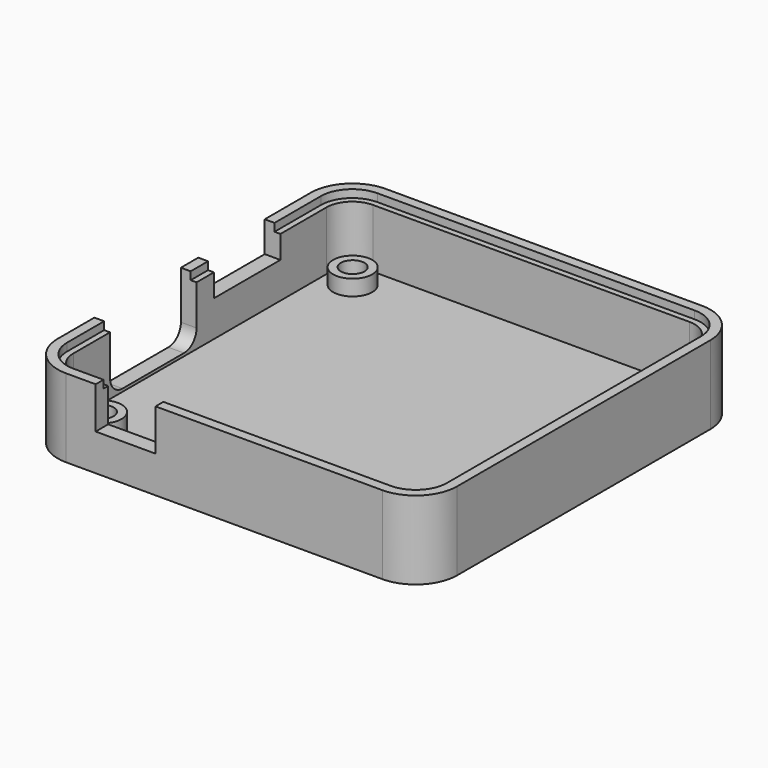
from build123d import *

# Parameters (mm, degrees)
PAD005_DEPTH    = 4
PAD_DEPTH       = 10
POCKET_DEPTH    = 4.5
POCKET001_DEPTH = 1
SKETCH002_R     = 2.5
PAD004_DEPTH    = 2
SKETCH003_R     = 1.5
POCKET002_DEPTH = 3.501
SKETCH009_W     = 10.607274
SKETCH009_H     = 4.434788
POCKET003_DEPTH = 5
SKETCH010_W     = 7.64298
SKETCH010_H     = 5.328556
POCKET004_DEPTH = 5


with BuildPart() as usb_c_cutter:
    # Sketch008 → Pad005 (new body)
    with BuildSketch(Plane(origin=(0, 0, 0), x_dir=(0, -1, 0), z_dir=(-1, 0, 0))):
        with BuildLine():
            Line((2.535801, 11.911979), (12.347588, 11.911979))
            ThreePointArc((14.347588, 9.911979), (13.761802, 11.326192), (12.347588, 11.911979))
            Line((14.347588, 9.911979), (14.347588, 3.866895))
            ThreePointArc((12.347588, 1.866895), (13.761802, 2.452682), (14.347588, 3.866895))
            Line((12.347588, 1.866895), (2.535801, 1.866895))
            ThreePointArc((0.535801, 3.866895), (1.121588, 2.452682), (2.535801, 1.866895))
            Line((0.535801, 3.866895), (0.535801, 9.911979))
            ThreePointArc((2.535801, 11.911979), (1.121588, 11.326192), (0.535801, 9.911979))
        make_face()
    extrude(amount=-PAD005_DEPTH)


with BuildPart() as usb_c_cutter_1:
    # Body002 placement: moved
    add(usb_c_cutter.part.moved(Location((-26, 0, 0))))


with BuildPart() as body_pocketed:
    # Sketch001 → Pad (new body)
    with BuildSketch(Plane.XY):
        with BuildLine():
            Line((-20.2, 25.5), (20.2, 25.5))
            ThreePointArc((25.5, 20.2), (23.947666, 23.947666), (20.2, 25.5))
            Line((25.5, 20.2), (25.5, -20.2))
            ThreePointArc((20.2, -25.5), (23.947666, -23.947666), (25.5, -20.2))
            Line((20.2, -25.5), (-20.2, -25.5))
            ThreePointArc((-25.5, -20.2), (-23.947666, -23.947666), (-20.2, -25.5))
            Line((-25.5, -20.2), (-25.5, 20.2))
            ThreePointArc((-20.2, 25.5), (-23.947666, 23.947666), (-25.5, 20.2))
        make_face()
    extrude(amount=PAD_DEPTH)

    # Sketch → Pocket (cut, symmetric)
    with BuildSketch(Plane.XY.offset(6)):
        with BuildLine():
            Line((-20.2, 23.5), (20.2, 23.5))
            ThreePointArc((23.5, 20.2), (22.533452, 22.533452), (20.2, 23.5))
            Line((23.5, 20.2), (23.5, -20.2))
            ThreePointArc((20.2, -23.5), (22.533452, -22.533452), (23.5, -20.2))
            Line((20.2, -23.5), (-20.2, -23.5))
            ThreePointArc((-23.5, -20.2), (-22.533452, -22.533452), (-20.2, -23.5))
            Line((-23.5, -20.2), (-23.5, 20.2))
            ThreePointArc((-20.2, 23.5), (-22.533452, 22.533452), (-23.5, 20.2))
        make_face()
    extrude(amount=POCKET_DEPTH, both=True, mode=Mode.SUBTRACT)

    # Sketch004 (on Face5 of Pocket) → Pocket001 (cut, symmetric)
    with BuildSketch(Plane.XY.offset(10)):
        with BuildLine():
            Line((-20.25, 24.25), (20.25, 24.25))
            ThreePointArc((24.25, 20.25), (23.078427, 23.078427), (20.25, 24.25))
            Line((24.25, 20.25), (24.25, -20.25))
            ThreePointArc((20.25, -24.25), (23.078427, -23.078427), (24.25, -20.25))
            Line((20.25, -24.25), (-20.25, -24.25))
            ThreePointArc((-24.25, -20.25), (-23.078427, -23.078427), (-20.25, -24.25))
            Line((-24.25, -20.25), (-24.25, 20.25))
            ThreePointArc((-20.25, 24.25), (-23.078427, 23.078427), (-24.25, 20.25))
        make_face()
    extrude(amount=POCKET001_DEPTH, both=True, mode=Mode.SUBTRACT)

    # Sketch002 (on Face19 of Pocket) → Pad004 (join)
    with BuildSketch(Plane.XY.offset(1.5)):
        with Locations((-20, 20)):
            Circle(SKETCH002_R)
        with Locations((20, 20)):
            Circle(SKETCH002_R)
        with Locations((20, -20)):
            Circle(SKETCH002_R)
        with Locations((-20, -20)):
            Circle(SKETCH002_R)
    extrude(amount=PAD004_DEPTH)

    # Sketch003 → Pocket002 (cut, through all)
    with BuildSketch(Plane.XY.offset(3.5)):
        with Locations((-20, 20)):
            Circle(SKETCH003_R)
        with Locations((20, 20)):
            Circle(SKETCH003_R)
        with Locations((20, -20)):
            Circle(SKETCH003_R)
        with Locations((-20, -20)):
            Circle(SKETCH003_R)
    extrude(amount=-POCKET002_DEPTH, mode=Mode.SUBTRACT)

    # Cut001: cut USB-C Cutter
    add(usb_c_cutter_1.part, mode=Mode.SUBTRACT)

    # Sketch009 (on Face1 of BaseFeature) → Pocket003 (cut)
    with BuildSketch(Plane(origin=(-25.5, 0, 0), x_dir=(0, -1, 0), z_dir=(-1, 0, 0))):
        with Locations((-7.538411, 8.299654)):
            Rectangle(SKETCH009_W, SKETCH009_H)
    extrude(amount=-POCKET003_DEPTH, mode=Mode.SUBTRACT)

    # Sketch010 (on Face17 of Pocket003) → Pocket004 (cut)
    with BuildSketch(Plane.XZ.offset(25.5)):
        with Locations((-12.587816, 7.350035)):
            Rectangle(SKETCH010_W, SKETCH010_H)
    extrude(amount=-POCKET004_DEPTH, mode=Mode.SUBTRACT)


solid = body_pocketed.part
